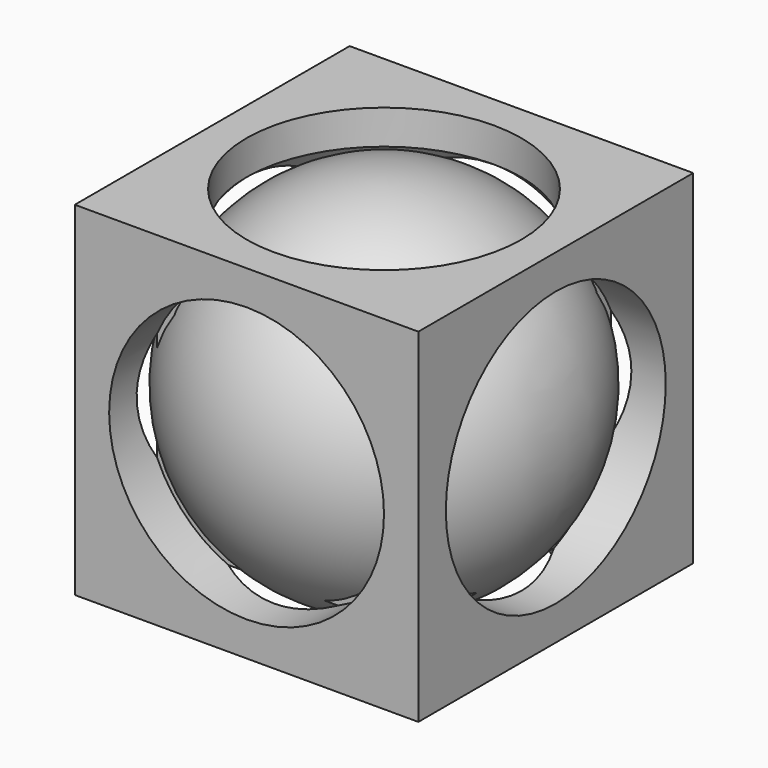
from build123d import *

# Parameters (mm, degrees)
CYLINDER001_R     = 12
CYLINDER001_DEPTH = 5
CYLINDER002_R     = 12
CYLINDER002_DEPTH = 5
CYLINDER003_R     = 12
CYLINDER003_DEPTH = 5
CYLINDER004_R     = 12
CYLINDER004_DEPTH = 5
CYLINDER005_R     = 12
CYLINDER005_DEPTH = 5
CYLINDER_R        = 12
CYLINDER_DEPTH    = 5
BOX_W             = 30
BOX_H             = 30
BOX_DEPTH         = 30


with BuildPart() as cylinder001:
    # Cylinder001 → Cylinder001 (new body)
    with BuildSketch(Plane(origin=(26, 15, 15), x_dir=(0, 0, -1), z_dir=(1, 0, 0))):
        Circle(CYLINDER001_R)
    extrude(amount=CYLINDER001_DEPTH)


with BuildPart() as cylinder002:
    # Cylinder002 → Cylinder002 (new body)
    with BuildSketch(Plane(origin=(-1, 15, 15), x_dir=(0, 0, -1), z_dir=(1, 0, 0))):
        Circle(CYLINDER002_R)
    extrude(amount=CYLINDER002_DEPTH)


with BuildPart() as cilindre:
    # Cylinder003 → Cylinder003 (new body)
    with BuildSketch(Plane(origin=(15, 4, 15), x_dir=(1, 0, 0), z_dir=(0, -1, 0))):
        Circle(CYLINDER003_R)
    extrude(amount=CYLINDER003_DEPTH)


with BuildPart() as cilindre001:
    # Cylinder004 → Cylinder004 (new body)
    with BuildSketch(Plane(origin=(15, 31, 15), x_dir=(1, 0, 0), z_dir=(0, -1, 0))):
        Circle(CYLINDER004_R)
    extrude(amount=CYLINDER004_DEPTH)


with BuildPart() as tall002:
    # Cylinder005 → Cylinder005 (new body)
    with BuildSketch(Plane(origin=(15, 15, -1), x_dir=(1, 0, 0), z_dir=(0, 0, 1))):
        Circle(CYLINDER005_R)
    extrude(amount=CYLINDER005_DEPTH)


with BuildPart() as tall1:
    # Cylinder → Cylinder (new body)
    with BuildSketch(Plane(origin=(15, 15, 26), x_dir=(1, 0, 0), z_dir=(0, 0, 1))):
        Circle(CYLINDER_R)
    extrude(amount=CYLINDER_DEPTH)


with BuildPart() as esfera_tall:
    # Sphere → Sphere (revolve)
    with BuildSketch(Plane(origin=(15, 15, 18), x_dir=(1, 0, 0), z_dir=(0, -1, 0))):
        with BuildLine():
            ThreePointArc((0, -15), (15, 0), (0, 15))
            Line((0, 15), (0, -15))
        make_face()
    revolve(axis=Axis((15, 15, 18), (0, 0, 1)))


with BuildPart() as cut006:
    # Box → Box (new body)
    with BuildSketch(Plane.XY):
        with Locations((15, 15)):
            Rectangle(BOX_W, BOX_H)
    extrude(amount=BOX_DEPTH)

    # Cut: cut Esfera tall
    add(esfera_tall.part, mode=Mode.SUBTRACT)

    # Cut001: cut Tall1
    add(tall1.part, mode=Mode.SUBTRACT)

    # Cut002: cut Tall002
    add(tall002.part, mode=Mode.SUBTRACT)

    # Cut003: cut Cilindre001
    add(cilindre001.part, mode=Mode.SUBTRACT)

    # Cut004: cut Cilindre
    add(cilindre.part, mode=Mode.SUBTRACT)

    # Cut005: cut Cylinder002
    add(cylinder002.part, mode=Mode.SUBTRACT)

    # Cut006: cut Cylinder001
    add(cylinder001.part, mode=Mode.SUBTRACT)


with BuildPart() as esfera:
    # Sphere001 → Sphere001 (revolve)
    with BuildSketch(Plane(origin=(15, 15, 15), x_dir=(1, 0, 0), z_dir=(0, -1, 0))):
        with BuildLine():
            ThreePointArc((0, -16), (16, 0), (0, 16))
            Line((0, 16), (0, -16))
        make_face()
    revolve(axis=Axis((15, 15, 15), (0, 0, 1)))


solid = Compound([cut006.part, esfera.part])
